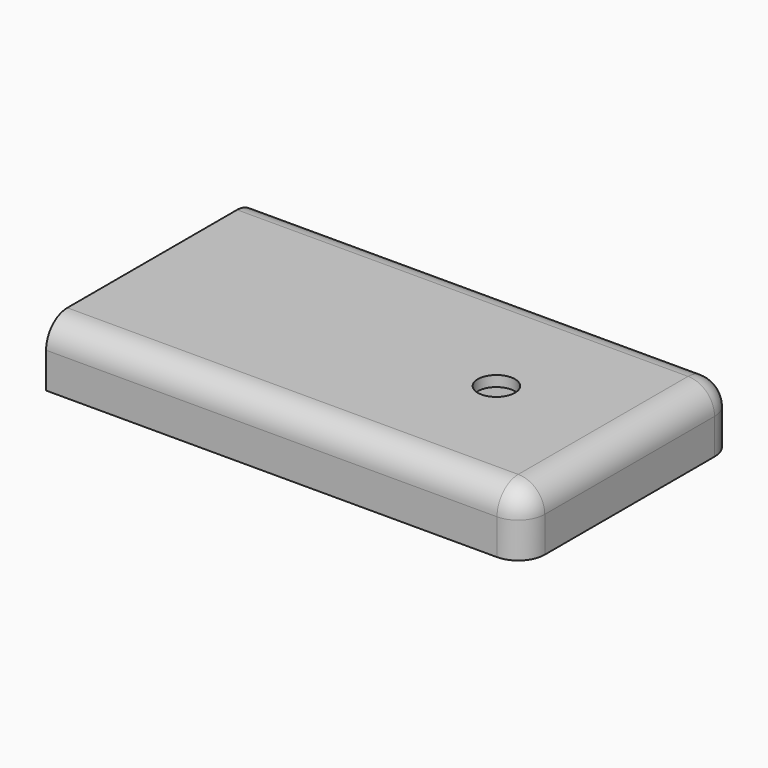
from build123d import *

# Parameters (mm, degrees)
F0_W     = 90
F0_H     = 50
F1_DEPTH = 11.7
F3_R     = 3.5
F4_DEPTH = 8.2
F7_DEPTH = 6.2
F8_R     = 5


with BuildPart() as f1:
    # F0 (on Top) → F1 (new body)
    with BuildSketch(Plane.XY):
        Rectangle(F0_W, F0_H)
    extrude(amount=F1_DEPTH)

    # F3 (on face) → F4 (cut)
    with BuildSketch(Plane.XY.offset(11.7)):
        with Locations((19.886918, 0)):
            Circle(F3_R)
    extrude(amount=-F4_DEPTH, mode=Mode.SUBTRACT)

    # F6 (on offset) → F7 (cut)
    with BuildSketch(Plane.XY.offset(3.5)):
        Polygon((24.876553, 4.19079), (18.762908, 6.398354), (13.794278, 2.207565), (14.939294, -4.19079), (21.052939, -6.398354), (26.021569, -2.207565), align=None)
    extrude(amount=F7_DEPTH, mode=Mode.SUBTRACT)

    # F8
    f8_edges = [f1.edges().sort_by_distance(p)[0] for p in [
        (0, -25, 11.7),
        (45, 0, 11.7),
        (0, 25, 11.7),
        (45, -25, 5.85),
        (45, 25, 5.85),
    ]]
    fillet(f8_edges, radius=F8_R)


solid = f1.part
